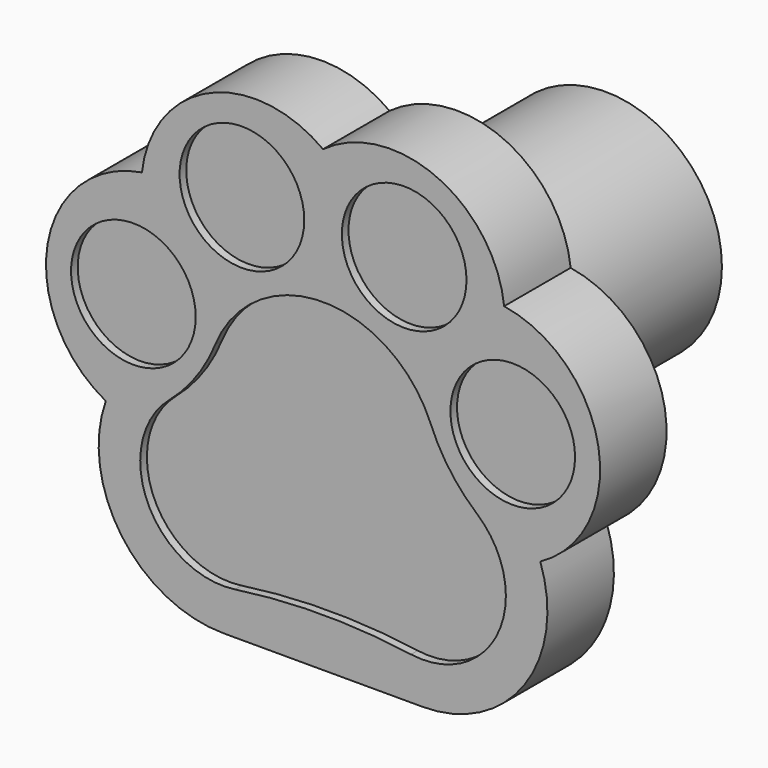
from build123d import *

# Parameters (mm, degrees)
CYLINDER004_R     = 2.8
CYLINDER004_DEPTH = 7.5
PAD010_DEPTH      = 2
SKETCH037_R       = 1.5
POCKET008_DEPTH   = 0.2


with BuildPart() as part:
    # Cylinder004 → Cylinder004 (join)
    with BuildSketch(Plane.XZ.offset(-6.5)):
        Circle(CYLINDER004_R)
    extrude(amount=CYLINDER004_DEPTH)

    # Sketch036 → Pad010 (join)
    with BuildSketch(Plane.XZ):
        with BuildLine():
            ThreePointArc((-4.359163, 3.126626), (-6.630007, 0.874403), (-5.228622, -2.000551))
            ThreePointArc((-5.228622, -2.000551), (-4.849321, -4.732289), (-2.4, -6))
            Line((-2.4, -6), (2.4, -6))
            ThreePointArc((2.4, -6), (4.849321, -4.732289), (5.228622, -2.000551))
            ThreePointArc((5.228622, -2.000551), (6.630007, 0.874403), (4.359163, 3.126626))
            ThreePointArc((4.359163, 3.126626), (2.731228, 5.340757), (0, 5.035887))
            ThreePointArc((0, 5.035887), (-2.731228, 5.340757), (-4.359163, 3.126626))
        make_face()
    extrude(amount=PAD010_DEPTH)

    # Sketch037 → Pocket008 (cut)
    with BuildSketch(Plane(origin=(0, -2, -1), x_dir=(1, 0, 0), z_dir=(0, -1, 0))):
        with Locations((-4.565071, 1.483282)):
            Circle(SKETCH037_R)
        with Locations((4.565071, 1.483282)):
            Circle(SKETCH037_R)
        with Locations((-1.952336, 4.385018)):
            Circle(SKETCH037_R)
        with Locations((1.952336, 4.385018)):
            Circle(SKETCH037_R)
        with BuildLine():
            ThreePointArc((2.594039, 1.054023), (0, 2.8), (-2.594039, 1.054023))
            ThreePointArc((-3.699936, -0.480077), (-3.055021, 0.220676), (-2.594039, 1.054023))
            ThreePointArc((-3.699936, -0.480077), (-4.22241, -2.823905), (-2.117647, -3.979969))
            ThreePointArc((2.117647, -3.979969), (0, -3.829736), (-2.117647, -3.979969))
            ThreePointArc((2.117647, -3.979969), (4.22241, -2.823905), (3.699936, -0.480077))
            ThreePointArc((2.594039, 1.054023), (3.055021, 0.220676), (3.699936, -0.480077))
        make_face()
    extrude(amount=-POCKET008_DEPTH, mode=Mode.SUBTRACT)


solid = part.part
